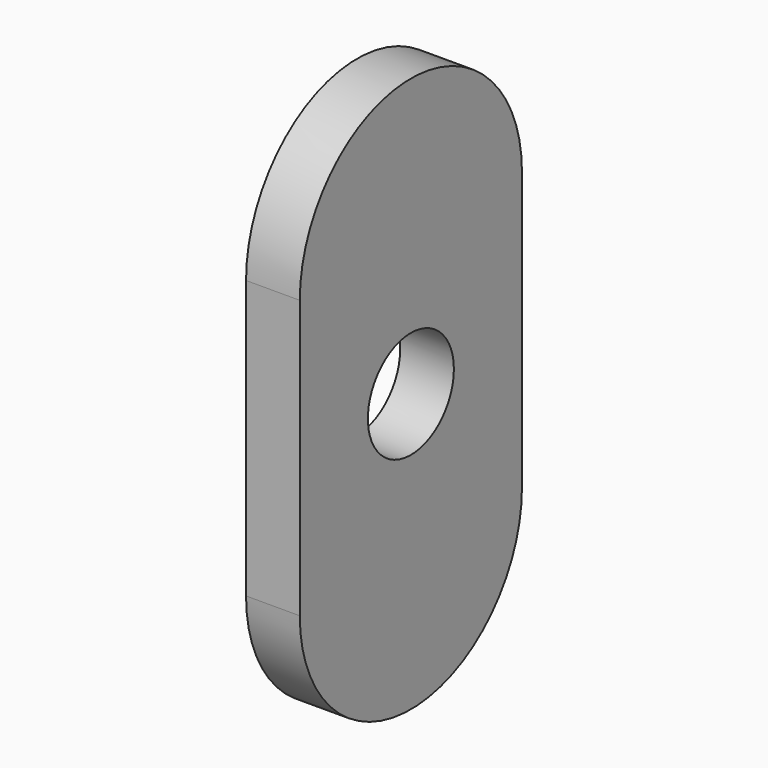
from build123d import *

# Parameters (mm, degrees)
F0_R     = 3
F1_DEPTH = 1.5


with BuildPart() as f1:
    # F0 (on Right) → F1 (new body, symmetric)
    with BuildSketch(Plane.YZ):
        with BuildLine():
            ThreePointArc((7.75, 7.75), (0, 15.5), (-7.75, 7.75))
            Line((-7.75, 7.75), (-7.75, 0))
            Line((-7.75, 0), (-7.75, -7.75))
            ThreePointArc((-7.75, -7.75), (0, -15.5), (7.75, -7.75))
            Line((7.75, -7.75), (7.75, 0))
            Line((7.75, 0), (7.75, 7.75))
        make_face()
        Circle(F0_R, mode=Mode.SUBTRACT)
    extrude(amount=F1_DEPTH, both=True)


solid = f1.part
